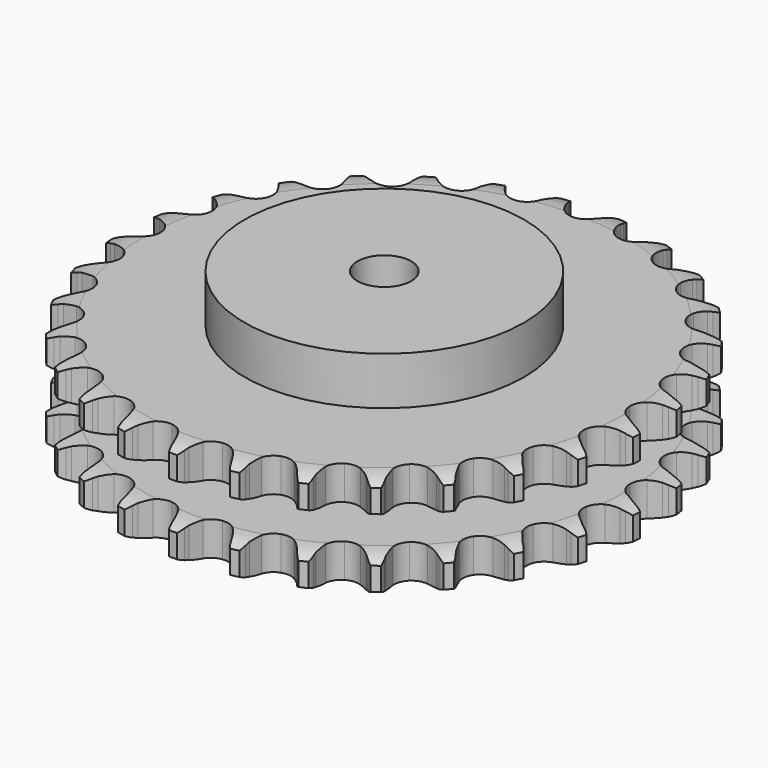
from build123d import *

# Parameters (mm, degrees)
PAD_DEPTH         = 47.7
SKETCH001_R       = 65
PAD001_DEPTH      = 70
SKETCH002_R       = 12.5
POCKET_DEPTH      = 0.0010001
POCKET_DEPTH_BACK = 70.001


with BuildPart() as part:
    # Sprocket → Pad (new body)
    with BuildSketch(Plane.XY):
        with BuildLine():
            ThreePointArc((-13.5782636358, 124.8500723495), (-11.46559162, 122.5011290868), (-9.9829181202, 119.7113984921))
            Line((-9.9829181202, 119.7113984921), (-9.2088113591, 117.6947814338))
            ThreePointArc((-9.2088113591, 117.6947814338), (-7.9809897045, 115.0637767197), (-6.3974871418, 112.6302090805))
            ThreePointArc((-6.3974871418, 112.6302090805), (-3.5732057494, 110.2855890558), (0, 109.4453455698))
            ThreePointArc((0, 109.4453455698), (3.5732057494, 110.2855890558), (6.3974871418, 112.6302090805))
            ThreePointArc((6.3974871418, 112.6302090805), (7.9809897045, 115.0637767197), (9.2088113591, 117.6947814338))
            Line((9.2088113591, 117.6947814338), (9.9829181202, 119.7113984921))
            ThreePointArc((9.9829181202, 119.7113984921), (11.46559162, 122.5011290868), (13.5782636358, 124.8500723495))
            ThreePointArc((13.5782636358, 124.8500723495), (15.1365891867, 122.1018840417), (15.9848889899, 119.0586448231))
            Line((15.9848889899, 119.0586448231), (16.3073845084, 116.9227650798))
            ThreePointArc((16.3073845084, 116.9227650798), (16.9409121334, 114.0893264322), (17.9642481795, 111.372248009))
            ThreePointArc((17.9642481795, 111.372248009), (20.2184754436, 108.4753068834), (23.5275141162, 106.8865742103))
            ThreePointArc((23.5275141162, 106.8865742103), (27.1978078129, 106.9390396576), (30.4600830747, 108.6217067548))
            Line((30.4600830747, 108.6217067548), (34.2944134424, 112.9635206164))
            ThreePointArc((34.2944134424, 112.9635206164), (34.8656638826, 113.8805607752), (35.4839350743, 114.7665802173))
            ThreePointArc((35.4839350743, 114.7665802173), (37.5316541056, 117.172357486), (40.0998863909, 119.0122217273))
            ThreePointArc((40.0998863909, 119.0122217273), (41.0309999061, 115.9932906053), (41.2052604568, 112.8388412463))
            Line((41.2052604568, 112.8388412463), (41.0610652006, 110.6835701809))
            ThreePointArc((41.0610652006, 110.6835701809), (41.0706757485, 107.7801860419), (41.4859952218, 104.906644402))
            ThreePointArc((41.4859952218, 104.906644402), (43.0647631961, 101.5928399228), (45.9549078213, 99.3299054366))
            ThreePointArc((45.9549078213, 99.3299054366), (49.5506706113, 98.5921396192), (53.0983993769, 99.5341741456))
            Line((53.0983993769, 99.5341741456), (57.7764468685, 102.9502111249))
            ThreePointArc((57.7764468685, 102.9502111249), (58.5314783175, 103.7230094358), (59.3257626619, 104.4554042054))
            ThreePointArc((59.3257626619, 104.4554042054), (61.8427781587, 106.3647366769), (64.7464830262, 107.6094918898))
            ThreePointArc((64.7464830262, 107.6094918898), (65.0068466725, 104.4609798175), (64.4989197412, 101.3428188642))
            Line((64.4989197412, 101.3428188642), (63.8947761202, 99.2689345563))
            ThreePointArc((63.8947761202, 99.2689345563), (63.2800202123, 96.4313639414), (63.0679032358, 93.5357226982))
            ThreePointArc((63.0679032358, 93.5357226982), (63.8973904846, 89.9600046797), (66.2335011118, 87.1286806819))
            ThreePointArc((66.2335011118, 87.1286806819), (69.5865991235, 85.6351807095), (73.2538935389, 85.7925341777))
            Line((73.2538935389, 85.7925341777), (78.556917853, 88.1230641821))
            ThreePointArc((78.556917853, 88.1230641821), (79.4604258794, 88.715485455), (80.3935835232, 89.2600095867))
            ThreePointArc((80.3935835232, 89.2600095867), (83.2622026383, 90.5836189967), (86.3656060758, 91.1750618108))
            ThreePointArc((86.3656060758, 91.1750618108), (85.9430455385, 88.0441897134), (84.7766812238, 85.1081189065))
            Line((84.7766812238, 85.1081189065), (83.7408383224, 83.2125938814))
            ThreePointArc((83.7408383224, 83.2125938814), (82.5304612618, 80.5735184387), (81.7008261895, 77.7911745585))
            ThreePointArc((81.7008261895, 77.7911745585), (81.7422468108, 74.1207396012), (83.4150895037, 70.8534156551))
            ThreePointArc((83.4150895037, 70.8534156551), (86.3687356006, 68.6740159264), (89.9841170549, 68.0393306631))
            Line((89.9841170549, 68.0393306631), (95.6641546684, 69.1753806999))
            ThreePointArc((95.6641546684, 69.1753806999), (96.6738922411, 69.5597239745), (97.7022897701, 69.8909161251))
            ThreePointArc((97.7022897701, 69.8909161251), (100.7883790619, 70.5669119687), (103.9463693737, 70.4773871754))
            ThreePointArc((103.9463693737, 70.4773871754), (102.860643114, 67.5105511525), (101.0903793149, 64.8938578996))
            Line((101.0903793149, 64.8938578996), (99.6712719958, 63.2653248007))
            ThreePointArc((99.6712719958, 63.2653248007), (97.9218696686, 60.9481447649), (96.5135093146, 58.409197555))
            ThreePointArc((96.5135093146, 58.409197555), (95.7649265262, 54.8156711182), (96.6962810195, 51.2651236602))
            ThreePointArc((96.6962810195, 51.2651236602), (99.112365993, 48.5017304844), (102.5067832676, 47.1046836671))
            Line((102.5067832676, 47.1046836671), (108.2982419347, 46.9931332991))
            ThreePointArc((108.2982419347, 46.9931332991), (109.3669948469, 47.151427111), (110.4425455356, 47.2538011037))
            ThreePointArc((110.4425455356, 47.2538011037), (113.6018028988, 47.2505745665), (116.6667159678, 46.4842682456))
            ThreePointArc((116.6667159678, 46.4842682456), (114.9685913388, 43.8201942522), (112.6772036231, 41.6452322217))
            Line((112.6772036231, 41.6452322217), (110.9411877674, 40.3598394468))
            ThreePointArc((110.9411877674, 40.3598394468), (108.7345602821, 38.4729035808), (106.8133280111, 36.2960713911))
            ThreePointArc((106.8133280111, 36.2960713911), (105.3097447123, 32.9474827769), (105.4560619051, 29.2797314601))
            ThreePointArc((105.4560619051, 29.2797314601), (107.2216123071, 26.0615580307), (110.2363462227, 23.9674740159))
            Line((110.2363462227, 23.9674740159), (115.8684237728, 22.6135392143))
            ThreePointArc((115.8684237728, 22.6135392143), (116.9462183263, 22.5383819209), (118.0186306199, 22.4071508615))
            ThreePointArc((118.0186306199, 22.4071508615), (121.1033326915, 21.7248528129), (123.931856589, 20.3175965962))
            ThreePointArc((123.931856589, 20.3175965962), (121.700736011, 18.0808537714), (118.9953671217, 16.4493217704))
            Line((118.9953671217, 16.4493217704), (117.0236169012, 15.567172857))
            ThreePointArc((117.0236169012, 15.567172857), (114.4629437065, 14.1987121849), (112.1186742043, 12.4857812691))
            ThreePointArc((112.1186742043, 12.4857812691), (109.930396279, 9.5387067595), (109.284834542, 5.9252515589))
            ThreePointArc((109.284834542, 5.9252515589), (110.3172951979, 2.4027760888), (112.8113801474, -0.2904280824))
            Line((112.8113801474, -0.2904280824), (118.0207268939, -2.8234388309))
            ThreePointArc((118.0207268939, -2.8234388309), (119.0571666132, -3.1285329583), (120.0762957047, -3.4872328512))
            ThreePointArc((120.0762957047, -3.4872328512), (122.9422052442, -4.8166989129), (125.4020813364, -6.7991032886))
            ThreePointArc((125.4020813364, -6.7991032886), (122.742289528, -8.5039273364), (119.7494395074, -9.5157406848))
            Line((119.7494395074, -9.5157406848), (117.6341517712, -9.9533974339))
            ThreePointArc((117.6341517712, -9.9533974339), (114.8391670997, -10.739395212), (112.1814758027, -11.908330108))
            ThreePointArc((112.1814758027, -11.908330108), (109.4108246946, -14.3160885844), (108.003569777, -17.7062865197))
            ThreePointArc((108.003569777, -17.7062865197), (108.2546639741, -21.3683569925), (110.1114793173, -24.5347500863))
            Line((110.1114793173, -24.5347500863), (114.6545119961, -28.1283960145))
            ThreePointArc((114.6545119961, -28.1283960145), (115.6011341118, -28.6491611134), (116.5193266576, -29.2185574316))
            ThreePointArc((116.5193266576, -29.2185574316), (119.0324369202, -31.1330271509), (121.008644135, -33.5978846603))
            ThreePointArc((121.008644135, -33.5978846603), (118.044550005, -34.6910742533), (114.9041611938, -35.0358576815))
            Line((114.9041611938, -35.0358576815), (112.7442444453, -35.0085579232))
            ThreePointArc((112.7442444453, -35.0085579232), (109.8456386739, -35.1753404249), (106.9987962733, -35.7456212045))
            ThreePointArc((106.9987962733, -35.7456212045), (103.7753245489, -37.5014795374), (101.6721781267, -40.5098983198))
            ThreePointArc((101.6721781267, -40.5098983198), (101.1301649794, -44.14032945), (102.2628880944, -47.6318544447))
            Line((102.2628880944, -47.6318544447), (105.9271795466, -52.1181006629))
            ThreePointArc((105.9271795466, -52.1181006629), (106.7397210608, -52.8301863361), (107.5140433979, -53.5836547406))
            ThreePointArc((107.5140433979, -53.5836547406), (109.5568441408, -55.9936096411), (110.9569772253, -58.8256662867))
            ThreePointArc((110.9569772253, -58.8256662867), (107.8271785208, -59.2561050946), (104.6860920095, -58.9177369126))
            Line((104.6860920095, -58.9177369126), (102.5825415554, -58.4267571533))
            ThreePointArc((102.5825415554, -58.4267571533), (99.7158502683, -57.966525814), (96.8129719508, -57.9114867819))
            ThreePointArc((96.8129719508, -57.9114867819), (93.2874055652, -58.933342987), (90.5867084276, -61.4193122979))
            ThreePointArc((90.5867084276, -61.4193122979), (89.2769318683, -64.8483491609), (89.6325978812, -68.5017462281))
            Line((89.6325978812, -68.5017462281), (92.2468099111, -73.6708208494))
            ThreePointArc((92.2468099111, -73.6708208494), (92.8872772856, -74.5409307623), (93.4815229622, -75.4432399078))
            ThreePointArc((93.4815229622, -75.4432399078), (94.958495093, -78.235993177), (95.7170853803, -81.3028251375))
            ThreePointArc((95.7170853803, -81.3028251375), (92.5679280103, -81.05038632), (89.5730175131, -80.044688248))
            Line((89.5730175131, -80.044688248), (87.6241930346, -79.1129861555))
            ThreePointArc((87.6241930346, -79.1129861555), (84.9234595304, -78.0472608812), (82.1002806598, -77.3694756013))
            ThreePointArc((82.1002806598, -77.3694756013), (78.4374711788, -77.6095488183), (75.2655049224, -79.4568274957))
            ThreePointArc((75.2655049224, -79.4568274957), (73.2492086472, -82.5241321388), (72.8111870106, -86.1685724922))
            Line((72.8111870106, -86.1685724922), (74.2530819692, -91.7787753322))
            ThreePointArc((74.2530819692, -91.7787753322), (74.6915276614, -92.7662241123), (75.0779104101, -93.7751830261))
            ThreePointArc((75.0779104101, -93.7751830261), (75.9199923536, -96.820148625), (76.0015690048, -99.9783542465))
            ThreePointArc((76.0015690048, -99.9783542465), (72.9803040678, -99.0548415621), (70.2716082711, -97.4288389242))
            Line((70.2716082711, -97.4288389242), (68.5686346349, -96.0999798528))
            ThreePointArc((68.5686346349, -96.0999798528), (66.1601422105, -94.478592773), (63.548671493, -93.2097537316))
            ThreePointArc((63.548671493, -93.2097537316), (59.9198878171, -92.6568184037), (56.4249700586, -93.7790297497))
            ThreePointArc((56.4249700586, -93.7790297497), (53.7964338404, -96.3411784169), (52.5852059592, -99.806252076))
            Line((52.5852059592, -99.806252076), (52.7873624408, -105.5952562853))
            ThreePointArc((52.7873624408, -105.5952562853), (53.0032852174, -106.6538719251), (53.1637382102, -107.7223028098))
            ThreePointArc((53.1637382102, -107.7223028098), (53.3315551506, -110.8771015311), (52.7323037324, -113.9790066289))
            ThreePointArc((52.7323037324, -113.9790066289), (49.980202219, -112.4276025044), (47.6843767275, -110.2573253767))
            Line((47.6843767275, -110.2573253767), (46.3068830881, -108.5934452997))
            ThreePointArc((46.3068830881, -108.5934452997), (44.3032501725, -106.4922106721), (42.0255970765, -104.6916473727))
            ThreePointArc((42.0255970765, -104.6916473727), (38.6005170972, -103.3715581412), (34.9460663067, -103.7162288005))
            ThreePointArc((34.9460663067, -103.7162288005), (31.8281975777, -105.6534182678), (29.9003991214, -108.7771022395))
            Line((29.9003991214, -108.7771022395), (28.8533645135, -114.4742204151))
            ThreePointArc((28.8533645135, -114.4742204151), (28.8366680655, -115.5545032239), (28.7636886989, -116.6324474388))
            ThreePointArc((28.7636886989, -116.6324474388), (28.2493937026, -119.7495644007), (26.9973345452, -122.6501273399))
            ThreePointArc((26.9973345452, -122.6501273399), (24.6430816634, -120.5433737078), (22.8674767256, -117.9303018368))
            Line((22.8674767256, -117.9303018368), (21.8798731546, -116.0092019373))
            ThreePointArc((21.8798731546, -116.0092019373), (20.374787396, -113.5263711577), (18.5374524487, -111.278275939))
            ThreePointArc((18.5374524487, -111.278275939), (15.4762290992, -109.2527587092), (11.8331233341, -108.8037722649))
            ThreePointArc((11.8331233341, -108.8037722649), (8.3717101708, -110.0254217058), (5.8174828526, -112.6616559993))
            Line((5.8174828526, -112.6616559993), (3.5702153299, -118.0004972273))
            ThreePointArc((3.5702153299, -118.0004972273), (3.3216803646, -119.0519343816), (3.0186810726, -120.0889884532))
            ThreePointArc((3.0186810726, -120.0889884532), (1.846322002, -123.022670731), (0, -125.5862644123))
            ThreePointArc((0, -125.5862644123), (-1.846322002, -123.022670731), (-3.0186810726, -120.0889884532))
            Line((-3.0186810726, -120.0889884532), (-3.5702153299, -118.0004972273))
            ThreePointArc((-3.5702153299, -118.0004972273), (-4.5063777941, -115.2521647035), (-5.8174828526, -112.6616559993))
            ThreePointArc((-5.8174828526, -112.6616559993), (-8.3717101708, -110.0254217058), (-11.8331233341, -108.8037722649))
            ThreePointArc((-11.8331233341, -108.8037722649), (-15.4762290992, -109.2527587092), (-18.5374524487, -111.278275939))
            Line((-18.5374524487, -111.278275939), (-21.8798731546, -116.0092019373))
            ThreePointArc((-21.8798731546, -116.0092019373), (-22.3486254185, -116.9826294043), (-22.8674767256, -117.9303018368))
            ThreePointArc((-22.8674767256, -117.9303018368), (-24.6430816634, -120.5433737078), (-26.9973345452, -122.6501273399))
            ThreePointArc((-26.9973345452, -122.6501273399), (-28.2493937026, -119.7495644007), (-28.7636886989, -116.6324474388))
            Line((-28.7636886989, -116.6324474388), (-28.8533645135, -114.4742204151))
            ThreePointArc((-28.8533645135, -114.4742204151), (-29.1768297671, -111.5888951214), (-29.9003991214, -108.7771022395))
            ThreePointArc((-29.9003991214, -108.7771022395), (-31.8281975777, -105.6534182678), (-34.9460663067, -103.7162288005))
            ThreePointArc((-34.9460663067, -103.7162288005), (-38.6005170972, -103.3715581412), (-42.0255970765, -104.6916473727))
            Line((-42.0255970765, -104.6916473727), (-46.3068830881, -108.5934452997))
            ThreePointArc((-46.3068830881, -108.5934452997), (-46.9739343156, -109.443346693), (-47.6843767275, -110.2573253767))
            ThreePointArc((-47.6843767275, -110.2573253767), (-49.980202219, -112.4276025044), (-52.7323037324, -113.9790066289))
            ThreePointArc((-52.7323037324, -113.9790066289), (-53.3315551506, -110.8771015311), (-53.1637382102, -107.7223028098))
            Line((-53.1637382102, -107.7223028098), (-52.7873624408, -105.5952562853))
            ThreePointArc((-52.7873624408, -105.5952562853), (-52.483005608, -102.7078528255), (-52.5852059592, -99.806252076))
            ThreePointArc((-52.5852059592, -99.806252076), (-53.7964338404, -96.3411784169), (-56.4249700586, -93.7790297497))
            ThreePointArc((-56.4249700586, -93.7790297497), (-59.9198878171, -92.6568184037), (-63.548671493, -93.2097537316))
            Line((-63.548671493, -93.2097537316), (-68.5686346349, -96.0999798528))
            ThreePointArc((-68.5686346349, -96.0999798528), (-69.402794252, -96.7866147278), (-70.2716082711, -97.4288389242))
            ThreePointArc((-70.2716082711, -97.4288389242), (-72.9803040678, -99.0548415621), (-76.0015690048, -99.9783542465))
            ThreePointArc((-76.0015690048, -99.9783542465), (-75.9199923536, -96.820148625), (-75.0779104101, -93.7751830261))
            Line((-75.0779104101, -93.7751830261), (-74.2530819692, -91.7787753322))
            ThreePointArc((-74.2530819692, -91.7787753322), (-73.3351344372, -89.0243054831), (-72.8111870106, -86.1685724922))
            ThreePointArc((-72.8111870106, -86.1685724922), (-73.2492086472, -82.5241321388), (-75.2655049224, -79.4568274957))
            ThreePointArc((-75.2655049224, -79.4568274957), (-78.4374711788, -77.6095488183), (-82.1002806598, -77.3694756013))
            Line((-82.1002806598, -77.3694756013), (-87.6241930346, -79.1129861555))
            ThreePointArc((-87.6241930346, -79.1129861555), (-88.5864566647, -79.6042482285), (-89.5730175131, -80.044688248))
            ThreePointArc((-89.5730175131, -80.044688248), (-92.5679280103, -81.05038632), (-95.7170853803, -81.3028251375))
            ThreePointArc((-95.7170853803, -81.3028251375), (-94.958495093, -78.235993177), (-93.4815229622, -75.4432399078))
            Line((-93.4815229622, -75.4432399078), (-92.2468099111, -73.6708208494))
            ThreePointArc((-92.2468099111, -73.6708208494), (-90.7581938863, -71.1780805597), (-89.6325978812, -68.5017462281))
            ThreePointArc((-89.6325978812, -68.5017462281), (-89.2769318683, -64.8483491609), (-90.5867084276, -61.4193122979))
            ThreePointArc((-90.5867084276, -61.4193122979), (-93.2874055652, -58.933342987), (-96.8129719508, -57.9114867819))
            Line((-96.8129719508, -57.9114867819), (-102.5825415554, -58.4267571533))
            ThreePointArc((-102.5825415554, -58.4267571533), (-103.6279148207, -58.6996755559), (-104.6860920095, -58.9177369126))
            ThreePointArc((-104.6860920095, -58.9177369126), (-107.8271785208, -59.2561050946), (-110.9569772253, -58.8256662867))
            ThreePointArc((-110.9569772253, -58.8256662867), (-109.5568441408, -55.9936096411), (-107.5140433979, -53.5836547406))
            Line((-107.5140433979, -53.5836547406), (-105.9271795466, -52.1181006629))
            ThreePointArc((-105.9271795466, -52.1181006629), (-103.9375010598, -50.0036476981), (-102.2628880944, -47.6318544447))
            ThreePointArc((-102.2628880944, -47.6318544447), (-101.1301649794, -44.14032945), (-101.6721781267, -40.5098983198))
            ThreePointArc((-101.6721781267, -40.5098983198), (-103.7753245489, -37.5014795374), (-106.9987962733, -35.7456212045))
            Line((-106.9987962733, -35.7456212045), (-112.7442444453, -35.0085579232))
            ThreePointArc((-112.7442444453, -35.0085579232), (-113.8238468537, -35.0503712942), (-114.9041611938, -35.0358576815))
            ThreePointArc((-114.9041611938, -35.0358576815), (-118.044550005, -34.6910742533), (-121.008644135, -33.5978846603))
            ThreePointArc((-121.008644135, -33.5978846603), (-119.0324369202, -31.1330271509), (-116.5193266576, -29.2185574316))
            Line((-116.5193266576, -29.2185574316), (-114.6545119961, -28.1283960145))
            ThreePointArc((-114.6545119961, -28.1283960145), (-112.256806202, -26.4910998452), (-110.1114793173, -24.5347500863))
            ThreePointArc((-110.1114793173, -24.5347500863), (-108.2546639741, -21.3683569925), (-108.003569777, -17.7062865197))
            ThreePointArc((-108.003569777, -17.7062865197), (-109.4108246946, -14.3160885844), (-112.1814758027, -11.908330108))
            Line((-112.1814758027, -11.908330108), (-117.6341517712, -9.9533974339))
            ThreePointArc((-117.6341517712, -9.9533974339), (-118.697502314, -9.7621506266), (-119.7494395074, -9.5157406848))
            ThreePointArc((-119.7494395074, -9.5157406848), (-122.742289528, -8.5039273364), (-125.4020813364, -6.7991032886))
            ThreePointArc((-125.4020813364, -6.7991032886), (-122.9422052442, -4.8166989129), (-120.0762957047, -3.4872328512))
            Line((-120.0762957047, -3.4872328512), (-118.0207268939, -2.8234388309))
            ThreePointArc((-118.0207268939, -2.8234388309), (-115.3271078506, -1.7398576063), (-112.8113801474, -0.2904280824))
            ThreePointArc((-112.8113801474, -0.2904280824), (-110.3172951979, 2.4027760888), (-109.284834542, 5.9252515589))
            ThreePointArc((-109.284834542, 5.9252515589), (-109.930396279, 9.5387067595), (-112.1186742043, 12.4857812691))
            Line((-112.1186742043, 12.4857812691), (-117.0236169012, 15.567172857))
            ThreePointArc((-117.0236169012, 15.567172857), (-118.0209944889, 15.9825373546), (-118.9953671217, 16.4493217704))
            ThreePointArc((-118.9953671217, 16.4493217704), (-121.700736011, 18.0808537714), (-123.931856589, 20.3175965962))
            ThreePointArc((-123.931856589, 20.3175965962), (-121.1033326915, 21.7248528129), (-118.0186306199, 22.4071508615))
            Line((-118.0186306199, 22.4071508615), (-115.8684237728, 22.6135392143))
            ThreePointArc((-115.8684237728, 22.6135392143), (-113.004842113, 23.0927384406), (-110.2363462227, 23.9674740159))
            ThreePointArc((-110.2363462227, 23.9674740159), (-107.2216123071, 26.0615580307), (-105.4560619051, 29.2797314601))
            ThreePointArc((-105.4560619051, 29.2797314601), (-105.3097447123, 32.9474827769), (-106.8133280111, 36.2960713911))
            Line((-106.8133280111, 36.2960713911), (-110.9411877674, 40.3598394468))
            ThreePointArc((-110.9411877674, 40.3598394468), (-111.8259561324, 40.9798996523), (-112.6772036231, 41.6452322217))
            ThreePointArc((-112.6772036231, 41.6452322217), (-114.9685913388, 43.8201942522), (-116.6667159678, 46.4842682456))
            ThreePointArc((-116.6667159678, 46.4842682456), (-113.6018028988, 47.2505745665), (-110.4425455356, 47.2538011037))
            Line((-110.4425455356, 47.2538011037), (-108.2982419347, 46.9931332991))
            ThreePointArc((-108.2982419347, 46.9931332991), (-105.3985955541, 46.8455437038), (-102.5067832676, 47.1046836671))
            ThreePointArc((-102.5067832676, 47.1046836671), (-99.112365993, 48.5017304844), (-96.6962810195, 51.2651236602))
            ThreePointArc((-96.6962810195, 51.2651236602), (-95.7649265262, 54.8156711182), (-96.5135093146, 58.409197555))
            Line((-96.5135093146, 58.409197555), (-99.6712719958, 63.2653248007))
            ThreePointArc((-99.6712719958, 63.2653248007), (-100.4020603528, 64.0610873882), (-101.0903793149, 64.8938578996))
            ThreePointArc((-101.0903793149, 64.8938578996), (-102.860643114, 67.5105511525), (-103.9463693737, 70.4773871754))
            ThreePointArc((-103.9463693737, 70.4773871754), (-100.7883790619, 70.5669119687), (-97.7022897701, 69.8909161251))
            Line((-97.7022897701, 69.8909161251), (-95.6641546684, 69.1753806999))
            ThreePointArc((-95.6641546684, 69.1753806999), (-92.8640278092, 68.4079034084), (-89.9841170549, 68.0393306631))
            ThreePointArc((-89.9841170549, 68.0393306631), (-86.3687356006, 68.6740159264), (-83.4150895037, 70.8534156551))
            ThreePointArc((-83.4150895037, 70.8534156551), (-81.7422468108, 74.1207396012), (-81.7008261895, 77.7911745585))
            Line((-81.7008261895, 77.7911745585), (-83.7408383224, 83.2125938814))
            ThreePointArc((-83.7408383224, 83.2125938814), (-84.28347582, 84.1468498766), (-84.7766812238, 85.1081189065))
            ThreePointArc((-84.7766812238, 85.1081189065), (-85.9430455385, 88.0441897134), (-86.3656060758, 91.1750618108))
            ThreePointArc((-86.3656060758, 91.1750618108), (-83.2622026383, 90.5836189967), (-80.3935835232, 89.2600095867))
            Line((-80.3935835232, 89.2600095867), (-78.556917853, 88.1230641821))
            ThreePointArc((-78.556917853, 88.1230641821), (-75.9872413348, 86.7715855796), (-73.2538935389, 85.7925341777))
            ThreePointArc((-73.2538935389, 85.7925341777), (-69.5865991235, 85.6351807095), (-66.2335011118, 87.1286806819))
            ThreePointArc((-66.2335011118, 87.1286806819), (-63.8973904846, 89.9600046797), (-63.0679032358, 93.5357226982))
            Line((-63.0679032358, 93.5357226982), (-63.8947761202, 99.2689345563))
            ThreePointArc((-63.8947761202, 99.2689345563), (-64.2238896321, 100.2979991872), (-64.4989197412, 101.3428188642))
            ThreePointArc((-64.4989197412, 101.3428188642), (-65.0068466725, 104.4609798175), (-64.7464830262, 107.6094918898))
            ThreePointArc((-64.7464830262, 107.6094918898), (-61.8427781587, 106.3647366769), (-59.3257626619, 104.4554042054))
            Line((-59.3257626619, 104.4554042054), (-57.7764468685, 102.9502111249))
            ThreePointArc((-57.7764468685, 102.9502111249), (-55.5573759095, 101.0779248487), (-53.0983993769, 99.5341741456))
            ThreePointArc((-53.0983993769, 99.5341741456), (-49.5506706113, 98.5921396192), (-45.9549078213, 99.3299054366))
            ThreePointArc((-45.9549078213, 99.3299054366), (-43.0647631961, 101.5928399228), (-41.4859952218, 104.906644402))
            Line((-41.4859952218, 104.906644402), (-41.0610652006, 110.6835701809))
            ThreePointArc((-41.0610652006, 110.6835701809), (-41.1612657448, 111.7593255291), (-41.2052604568, 112.8388412463))
            ThreePointArc((-41.2052604568, 112.8388412463), (-41.0309999061, 115.9932906053), (-40.0998863909, 119.0122217273))
            ThreePointArc((-40.0998863909, 119.0122217273), (-37.5316541056, 117.172357486), (-35.4839350743, 114.7665802173))
            Line((-35.4839350743, 114.7665802173), (-34.2944134424, 112.9635206164))
            ThreePointArc((-34.2944134424, 112.9635206164), (-32.5297093341, 110.657972692), (-30.4600830747, 108.6217067548))
            ThreePointArc((-30.4600830747, 108.6217067548), (-27.1978078129, 106.9390396576), (-23.5275141162, 106.8865742103))
            ThreePointArc((-23.5275141162, 106.8865742103), (-20.2184754436, 108.4753068834), (-17.9642481795, 111.372248009))
            Line((-17.9642481795, 111.372248009), (-16.3073845084, 116.9227650798))
            ThreePointArc((-16.3073845084, 116.9227650798), (-16.1739868188, 117.9949100209), (-15.9848889899, 119.0586448231))
            ThreePointArc((-15.9848889899, 119.0586448231), (-15.1365891867, 122.1018840417), (-13.5782636358, 124.8500723495))
        make_face()
    extrude(amount=PAD_DEPTH)

    # Sketch → Groove (revolve, cut)
    with BuildSketch(Plane.XZ):
        with BuildLine():
            ThreePointArc((111.7757022694, 0), (117.4765793949, 0.6326982121), (122.9, 2.5))
            Line((122.9, 2.5), (122.9, 13.3))
            ThreePointArc((122.9, 13.3), (117.4765793949, 15.1673017879), (111.7757022694, 15.8))
            Line((65, 15.8), (111.7757022694, 15.8))
            Line((65, 31.9), (65, 15.8))
            Line((111.7757022694, 31.9), (65, 31.9))
            ThreePointArc((111.7757022694, 31.9), (117.4765793949, 32.5326982121), (122.9, 34.4))
            Line((122.9, 34.4), (122.9, 45.2))
            ThreePointArc((122.9, 45.2), (117.4765793949, 47.0673017879), (111.7757022694, 47.7))
            Line((111.7757022694, 47.7), (132.9, 47.7))
            Line((132.9, 47.7), (132.9, 0))
            Line((111.7757022694, 0), (132.9, 0))
        make_face()
    revolve(axis=Axis((0, 0, 0), (0, 0, 1)), mode=Mode.SUBTRACT)

    # Sketch001 → Pad001 (join)
    with BuildSketch(Plane.XY):
        Circle(SKETCH001_R)
    extrude(amount=PAD001_DEPTH)

    # Sketch002 → Pocket (cut, two sides)
    with BuildSketch(Plane.XY) as pocket_sk:
        Circle(SKETCH002_R)
    extrude(amount=-POCKET_DEPTH, mode=Mode.SUBTRACT)
    extrude(pocket_sk.sketch, amount=POCKET_DEPTH_BACK, mode=Mode.SUBTRACT)


solid = part.part
